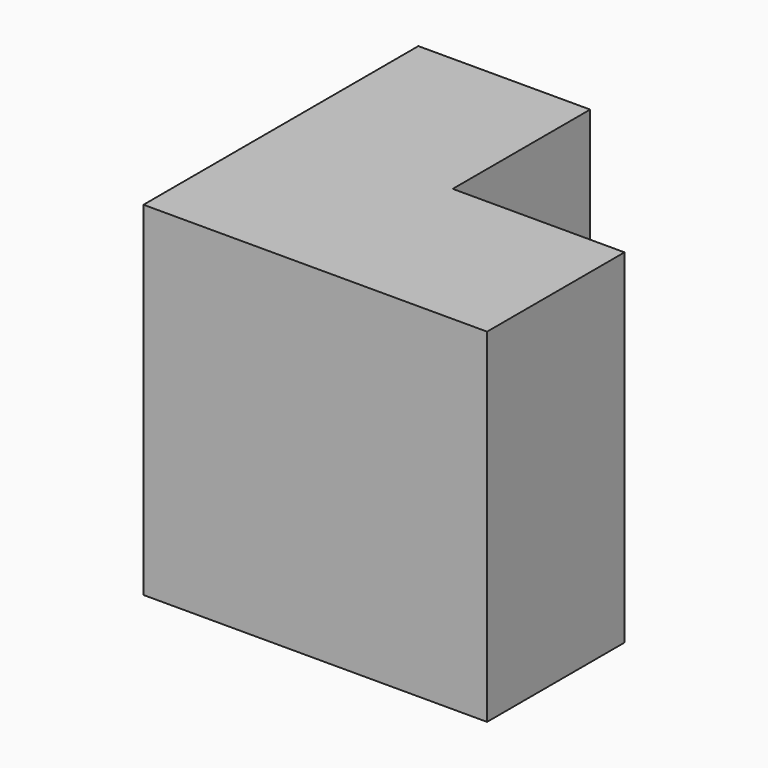
from build123d import *

# Parameters (mm, degrees)
F0_W     = 19.05
F0_H     = 19.05
F1_DEPTH = 19.05
F2_DEPTH = 19.05
F4_W     = 19.05
F4_H     = 19.05
F5_DEPTH = 19.05
F3_W     = 19.05
F3_H     = 19.05
F6_DEPTH = 19.05
F7_DEPTH = 19.05
F8_DEPTH = 19.05


with BuildPart() as f1:
    # F0 (on Top) → F1 (new body)
    with BuildSketch(Plane.XY):
        with Locations((9.525, 9.525)):
            Rectangle(F0_W, F0_H)
    extrude(amount=F1_DEPTH)

    # F2 (add): a face of the model
    f2_faces = [f1.faces().sort_by_distance(p)[0] for p in [
        (9.525, 19.05, 9.525),
    ]]
    extrude(f2_faces, amount=F2_DEPTH)

    # F4 (on face) → F5 (join)
    with BuildSketch(Plane.YZ.offset(19.05)):
        with Locations((9.525, 9.525)):
            Rectangle(F4_W, F4_H)
    extrude(amount=F5_DEPTH)

    # F3 (on face) → F6 (join)
    with BuildSketch(Plane.XY.offset(19.05)):
        with Locations((9.525, 9.525)):
            Rectangle(F3_W, F3_H)
    extrude(amount=F6_DEPTH)

    # F7 (add): a face of the model
    f7_faces = [f1.faces().sort_by_distance(p)[0] for p in [
        (19.05, 9.525, 28.575),
    ]]
    extrude(f7_faces, amount=F7_DEPTH)

    # F8 (add): a face of the model
    f8_faces = [f1.faces().sort_by_distance(p)[0] for p in [
        (9.525, 28.575, 19.05),
    ]]
    extrude(f8_faces, amount=F8_DEPTH)


solid = f1.part
